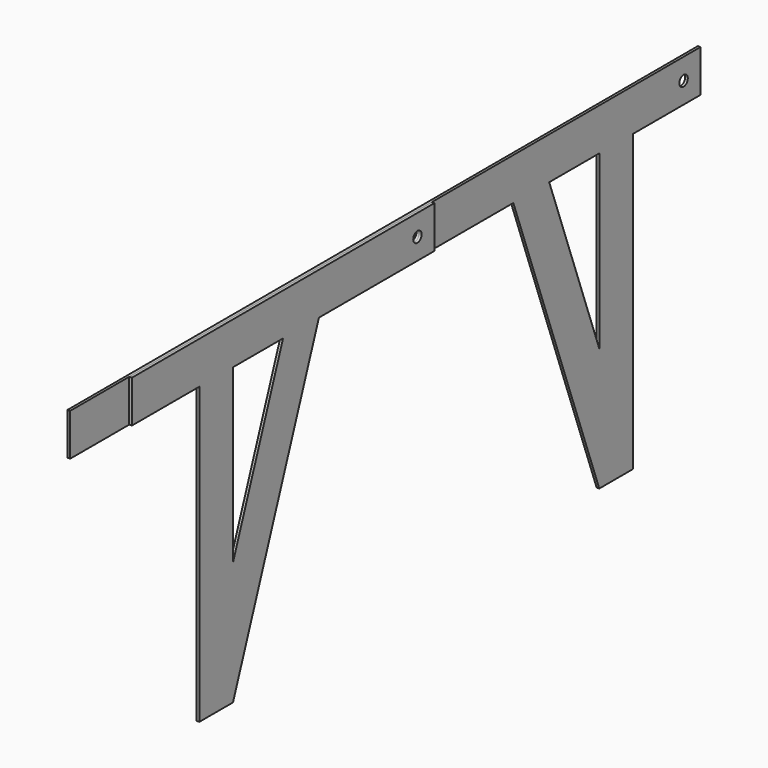
from build123d import *

# Parameters (mm, degrees)
F0_R     = 6.35
F1_DEPTH = 3.175
F2_R     = 6.35
F3_DEPTH = 3.175
F4_R     = 6.35
F5_DEPTH = 25.4


with BuildPart() as f1:
    # F0 (on Right) → F1 (new body)
    with BuildSketch(Plane.YZ):
        Polygon((360.368041, 209.367727), (-588.956959, 209.367727), (-588.956959, 158.567727), (78.540226, 158.567727), (207.968041, -197.032273), (258.768041, -197.032273), (258.768041, 158.567727), (360.368041, 158.567727), align=None)
        Polygon((132.600457, 158.567727), (207.968041, 158.567727), (207.968041, -48.50301), align=None, mode=Mode.SUBTRACT)
        with Locations((334.968041, 183.967727)):
            Circle(F0_R, mode=Mode.SUBTRACT)
    extrude(amount=F1_DEPTH)

    # F4 (on face) → F5 (cut)
    with BuildSketch(Plane.YZ.offset(3.175)):
        with Locations((-69.865868, 183.967727)):
            Circle(F4_R)
    extrude(amount=-F5_DEPTH, mode=Mode.SUBTRACT)


with BuildPart() as f3:
    # F2 (on face) → F3 (new body)
    with BuildSketch(Plane.YZ.offset(3.175)):
        Polygon((-398.499778, -197.032273), (-347.699778, -197.032273), (-218.271963, 158.567727), (-44.465868, 158.567727), (-44.465868, 209.367727), (-500.099778, 209.367727), (-500.099778, 158.567727), (-398.499778, 158.567727), align=None)
        Polygon((-272.332194, 158.567727), (-347.699778, -48.50301), (-347.699778, 158.567727), align=None, mode=Mode.SUBTRACT)
        with Locations((-69.865868, 183.967727)):
            Circle(F2_R, mode=Mode.SUBTRACT)
    extrude(amount=F3_DEPTH)


solid = Compound([f1.part, f3.part])
